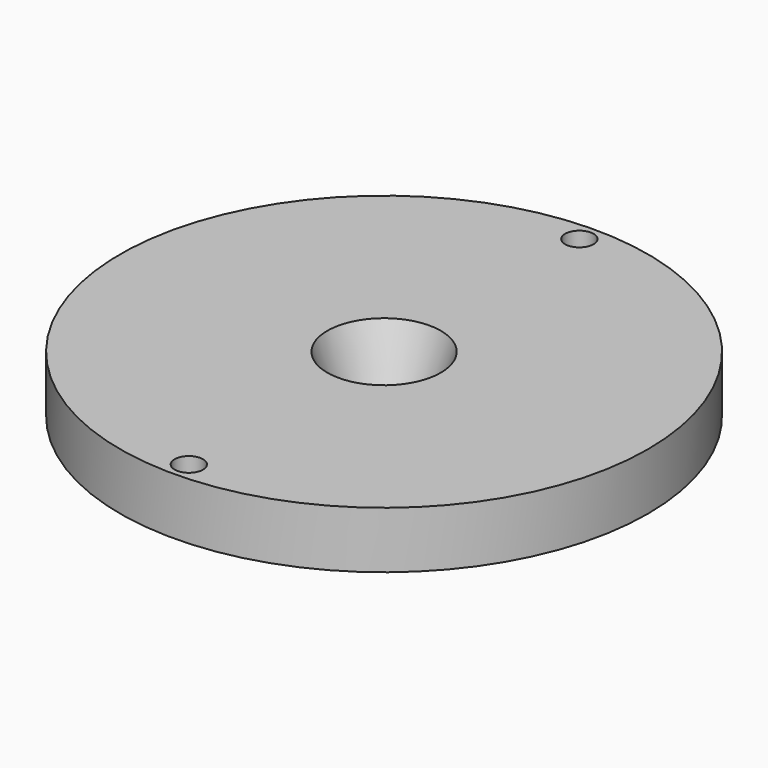
from build123d import *

# Parameters (mm, degrees)
F3_D = 5


with BuildPart() as f1:
    # F0 (on Front) → F1 (revolve)
    with BuildSketch(Plane.XZ):
        Polygon((6.5, 0), (46.5, 0), (46.5, 10), (10, 10), align=None)
    revolve(axis=Axis((0, 0, 6.286277), (0, 0, 1)))

    # F3 (through all)
    with Locations(Plane.XY.offset(10)):
        with Locations((0, -43), (0, 43)):
            Hole(F3_D / 2)


solid = f1.part
